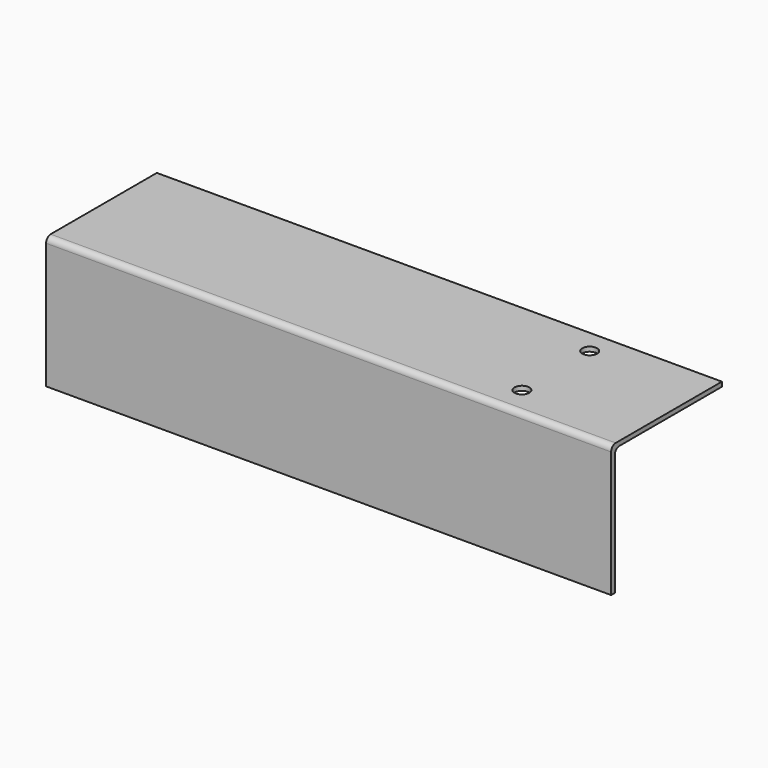
from build123d import *

# Parameters (mm, degrees)
F0_W     = 200
F0_H     = 49
F0_R     = 2.625
F1_DEPTH = 1.6
F3_W     = 200
F3_H     = 1.6
F4_DEPTH = 45
F5_R     = 2


with BuildPart() as f1:
    # F0 (on Top) → F1 (new body)
    with BuildSketch(Plane.XY):
        with Locations((0, -1)):
            Rectangle(F0_W, F0_H)
        with Locations((60, -15)):
            Circle(F0_R, mode=Mode.SUBTRACT)
        with Locations((60, 15)):
            Circle(F0_R, mode=Mode.SUBTRACT)
    extrude(amount=-F1_DEPTH)

    # F3 (on face) → F4 (join)
    with BuildSketch(Plane(origin=(0, 0, -1.6), x_dir=(1, 0, 0), z_dir=(0, 0, -1))):
        with Locations((0, 24.7)):
            Rectangle(F3_W, F3_H)
    extrude(amount=F4_DEPTH)

    # F5
    f5_edges = [f1.edges().sort_by_distance(p)[0] for p in [
        (0, -23.9, -1.6),
        (0, -25.5, 0),
    ]]
    fillet(f5_edges, radius=F5_R)


solid = f1.part
